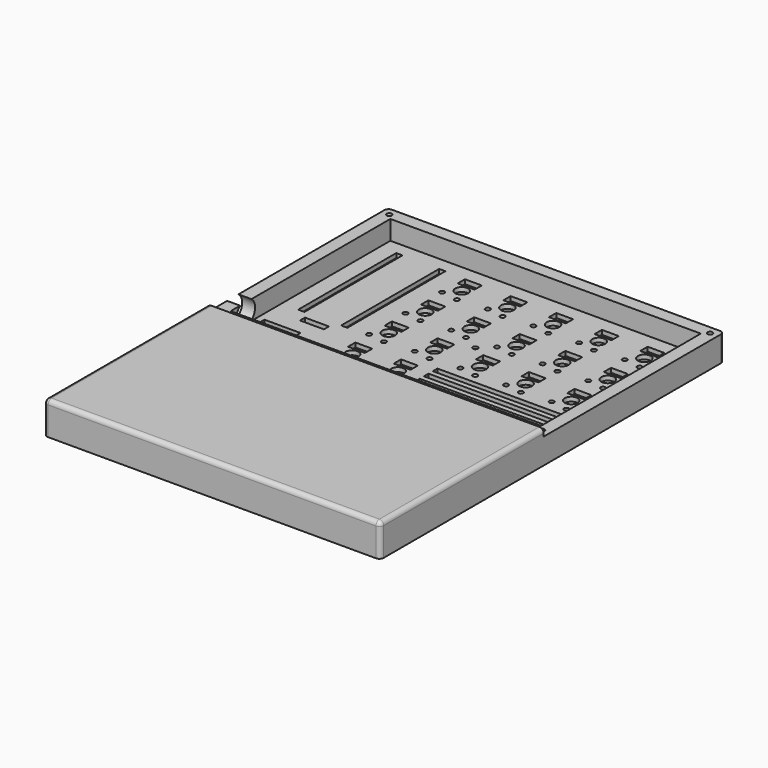
from build123d import *

# Parameters (mm, degrees)
PAD005_DEPTH    = 13.6
SKETCH046_W     = 129.2
SKETCH046_H     = 83.1
POCKET034_DEPTH = 11
SKETCH048_R     = 1.05
POCKET035_DEPTH = 13.601
SKETCH049_W     = 140
SKETCH049_H     = 93.9
POCKET036_DEPTH = 3
POCKET037_DEPTH = 1.6
SKETCH051_R     = 1
SKETCH051_R_2   = 2.7
SKETCH051_W     = 7
SKETCH051_H     = 3.8
POCKET038_DEPTH = 1.8
SKETCH052_W     = 2.6
SKETCH052_H     = 51
SKETCH052_W_2   = 10
SKETCH052_H_2   = 2.6
POCKET039_DEPTH = 1.8
SKETCH053_W     = 56.5
SKETCH053_H     = 2.4
SKETCH053_W_2   = 22.5
POCKET040_DEPTH = 1.8
SKETCH054_W     = 15
SKETCH054_H     = 10
POCKET041_DEPTH = 1.8
SKETCH055_R     = 4.85
POCKET042_DEPTH = 5.4
FILLET006_R     = 1.8


with BuildPart() as bottom002:
    # Sketch045 (on XY_Plane077 of Origin624) → Pad005 (new body)
    with BuildSketch(Plane.XY):
        Polygon((70, -46.95), (70, 46.95), (-70, 46.95), (-70, -46.95), (-70, -131.95), (70, -131.95), align=None)
    extrude(amount=PAD005_DEPTH)

    # Sketch046 (on Face4 of Pad005) → Pocket034 (cut)
    with BuildSketch(Plane.XY.offset(13.6)):
        Rectangle(SKETCH046_W, SKETCH046_H)
    extrude(amount=-POCKET034_DEPTH, mode=Mode.SUBTRACT)

    # Sketch048 (on Face5 of Pocket034) → Pocket035 (cut, through all)
    with BuildSketch(Plane.XY.offset(13.6)):
        with Locations((66.75, 43.7)):
            Circle(SKETCH048_R)
        with Locations((66.75, -43.7)):
            Circle(SKETCH048_R)
        with Locations((-66.75, -43.7)):
            Circle(SKETCH048_R)
        with Locations((-66.75, 43.7)):
            Circle(SKETCH048_R)
        with Locations((-4.05, 0)):
            Circle(SKETCH048_R)
    extrude(amount=-POCKET035_DEPTH, mode=Mode.SUBTRACT)

    # Sketch049 (on Face4 of Pad005) → Pocket036 (cut)
    with BuildSketch(Plane.XY.offset(13.6)):
        Rectangle(SKETCH049_W, SKETCH049_H)
    extrude(amount=-POCKET036_DEPTH, mode=Mode.SUBTRACT)

    # Sketch050 (on Face2 of Pocket036) → Pocket037 (cut)
    with BuildSketch(Plane(origin=(0, 0, 0), x_dir=(1, 0, 0), z_dir=(0, 0, -1))):
        Polygon((64.75, -43.7), (65.75, -45.432051), (67.75, -45.432051), (68.75, -43.7), (67.75, -41.967949), (65.75, -41.967949), align=None)
        Polygon((-64.75, -43.7), (-65.75, -45.432051), (-67.75, -45.432051), (-68.75, -43.7), (-67.75, -41.967949), (-65.75, -41.967949), align=None)
        Polygon((64.75, 43.7), (65.75, 45.432051), (67.75, 45.432051), (68.75, 43.7), (67.75, 41.967949), (65.75, 41.967949), align=None)
        Polygon((-64.75, 43.7), (-65.75, 45.432051), (-67.75, 45.432051), (-68.75, 43.7), (-67.75, 41.967949), (-65.75, 41.967949), align=None)
        Polygon((-2.05, 0), (-3.05, 1.732051), (-5.05, 1.732051), (-6.05, 0), (-5.05, -1.732051), (-3.05, -1.732051), align=None)
    extrude(amount=-POCKET037_DEPTH, mode=Mode.SUBTRACT)

    # Sketch051 (on Face52 of Pocket037) → Pocket038 (cut)
    with BuildSketch(Plane.XY.offset(2.6)):
        with Locations((28.85, 23.8)):
            Circle(SKETCH051_R)
        with Locations((21.85, 22.75)):
            Circle(SKETCH051_R)
        with Locations((24.45, 28.5)):
            Circle(SKETCH051_R_2)
        with Locations((9.85, 23.8)):
            Circle(SKETCH051_R)
        with Locations((2.85, 22.75)):
            Circle(SKETCH051_R)
        with Locations((5.45, 28.5)):
            Circle(SKETCH051_R_2)
        with Locations((-9.15, 23.8)):
            Circle(SKETCH051_R)
        with Locations((-16.15, 22.75)):
            Circle(SKETCH051_R)
        with Locations((-13.55, 28.5)):
            Circle(SKETCH051_R_2)
        with Locations((-28.15, 23.8)):
            Circle(SKETCH051_R)
        with Locations((-35.15, 22.75)):
            Circle(SKETCH051_R)
        with Locations((-32.55, 28.5)):
            Circle(SKETCH051_R_2)
        with Locations((-47.15, 23.8)):
            Circle(SKETCH051_R)
        with Locations((-54.15, 22.75)):
            Circle(SKETCH051_R)
        with Locations((-51.55, 28.5)):
            Circle(SKETCH051_R_2)
        with Locations((28.85, -14.2)):
            Circle(SKETCH051_R)
        with Locations((21.85, -15.25)):
            Circle(SKETCH051_R)
        with Locations((24.45, -9.5)):
            Circle(SKETCH051_R_2)
        with Locations((9.85, -14.2)):
            Circle(SKETCH051_R)
        with Locations((2.85, -15.25)):
            Circle(SKETCH051_R)
        with Locations((5.45, -9.5)):
            Circle(SKETCH051_R_2)
        with Locations((-9.15, -14.2)):
            Circle(SKETCH051_R)
        with Locations((-16.15, -15.25)):
            Circle(SKETCH051_R)
        with Locations((-13.55, -9.5)):
            Circle(SKETCH051_R_2)
        with Locations((-28.15, -14.2)):
            Circle(SKETCH051_R)
        with Locations((-35.15, -15.25)):
            Circle(SKETCH051_R)
        with Locations((-32.55, -9.5)):
            Circle(SKETCH051_R_2)
        with Locations((-47.15, -14.2)):
            Circle(SKETCH051_R)
        with Locations((-54.15, -15.25)):
            Circle(SKETCH051_R)
        with Locations((-51.55, -9.5)):
            Circle(SKETCH051_R_2)
        with Locations((28.85, -33.2)):
            Circle(SKETCH051_R)
        with Locations((21.85, -34.25)):
            Circle(SKETCH051_R)
        with Locations((24.45, -28.5)):
            Circle(SKETCH051_R_2)
        with Locations((9.85, -33.2)):
            Circle(SKETCH051_R)
        with Locations((2.85, -34.25)):
            Circle(SKETCH051_R)
        with Locations((5.45, -28.5)):
            Circle(SKETCH051_R_2)
        with Locations((28.85, 4.8)):
            Circle(SKETCH051_R)
        with Locations((21.85, 3.75)):
            Circle(SKETCH051_R)
        with Locations((24.45, 9.5)):
            Circle(SKETCH051_R_2)
        with Locations((9.85, 4.8)):
            Circle(SKETCH051_R)
        with Locations((2.85, 3.75)):
            Circle(SKETCH051_R)
        with Locations((5.45, 9.5)):
            Circle(SKETCH051_R_2)
        with Locations((-9.15, 4.8)):
            Circle(SKETCH051_R)
        with Locations((-16.15, 3.75)):
            Circle(SKETCH051_R)
        with Locations((-13.55, 9.5)):
            Circle(SKETCH051_R_2)
        with Locations((-28.15, 4.8)):
            Circle(SKETCH051_R)
        with Locations((-35.15, 3.75)):
            Circle(SKETCH051_R)
        with Locations((-32.55, 9.5)):
            Circle(SKETCH051_R_2)
        with Locations((-47.15, 4.8)):
            Circle(SKETCH051_R)
        with Locations((-54.15, 3.75)):
            Circle(SKETCH051_R)
        with Locations((-51.55, 9.5)):
            Circle(SKETCH051_R_2)
        with Locations((25.25, 33.65)):
            Rectangle(SKETCH051_W, SKETCH051_H)
        with Locations((6.25, 33.65)):
            Rectangle(SKETCH051_W, SKETCH051_H)
        with Locations((-12.75, 33.65)):
            Rectangle(SKETCH051_W, SKETCH051_H)
        with Locations((-31.75, 33.65)):
            Rectangle(SKETCH051_W, SKETCH051_H)
        with Locations((-50.75, 33.65)):
            Rectangle(SKETCH051_W, SKETCH051_H)
        with Locations((25.25, -4.35)):
            Rectangle(SKETCH051_W, SKETCH051_H)
        with Locations((6.25, -4.35)):
            Rectangle(SKETCH051_W, SKETCH051_H)
        with Locations((-12.75, -4.35)):
            Rectangle(SKETCH051_W, SKETCH051_H)
        with Locations((-31.75, -4.35)):
            Rectangle(SKETCH051_W, SKETCH051_H)
        with Locations((-50.75, -4.35)):
            Rectangle(SKETCH051_W, SKETCH051_H)
        with Locations((25.25, -23.35)):
            Rectangle(SKETCH051_W, SKETCH051_H)
        with Locations((6.25, -23.35)):
            Rectangle(SKETCH051_W, SKETCH051_H)
        with Locations((25.25, 14.65)):
            Rectangle(SKETCH051_W, SKETCH051_H)
        with Locations((6.25, 14.65)):
            Rectangle(SKETCH051_W, SKETCH051_H)
        with Locations((-12.75, 14.65)):
            Rectangle(SKETCH051_W, SKETCH051_H)
        with Locations((-31.75, 14.65)):
            Rectangle(SKETCH051_W, SKETCH051_H)
        with Locations((-50.75, 14.65)):
            Rectangle(SKETCH051_W, SKETCH051_H)
    extrude(amount=-POCKET038_DEPTH, mode=Mode.SUBTRACT)

    # Sketch052 (on Face52 of Pocket038) → Pocket039 (cut)
    with BuildSketch(Plane.XY.offset(2.6)):
        with Locations((38.55, 10.5)):
            Rectangle(SKETCH052_W, SKETCH052_H)
        with Locations((56.4, 10.5)):
            Rectangle(SKETCH052_W, SKETCH052_H)
        with Locations((47.5, -19.3)):
            Rectangle(SKETCH052_W_2, SKETCH052_H_2)
    extrude(amount=-POCKET039_DEPTH, mode=Mode.SUBTRACT)

    # Sketch053 (on Face52 of Pocket039) → Pocket040 (cut)
    with BuildSketch(Plane.XY.offset(2.6)):
        with Locations((-31.75, -24.9)):
            Rectangle(SKETCH053_W, SKETCH053_H)
        with Locations((-31.75, -29.5)):
            Rectangle(SKETCH053_W, SKETCH053_H)
        with Locations((-14.75, -34.1)):
            Rectangle(SKETCH053_W_2, SKETCH053_H)
        with Locations((-31.75, -20.3)):
            Rectangle(SKETCH053_W, SKETCH053_H)
    extrude(amount=-POCKET040_DEPTH, mode=Mode.SUBTRACT)

    # Sketch054 (on Face52 of Pocket040) → Pocket041 (cut)
    with BuildSketch(Plane.XY.offset(2.6)):
        with Locations((54.375, -32.375)):
            Rectangle(SKETCH054_W, SKETCH054_H)
    extrude(amount=-POCKET041_DEPTH, mode=Mode.SUBTRACT)

    # Sketch055 (on Face5 of Pocket041) → Pocket042 (cut)
    with BuildSketch(Plane.YZ.offset(70)):
        with Locations((-33.65, 6.75)):
            Circle(SKETCH055_R)
    extrude(amount=-POCKET042_DEPTH, mode=Mode.SUBTRACT)

    # Fillet006
    fillet006_edges = [bottom002.edges().sort_by_distance(p)[0] for p in [
        (-70, -89.45, 13.6),
        (0, -131.95, 13.6),
        (-70, -131.95, 6.8),
        (-70, 46.95, 5.3),
        (70, 46.95, 5.3),
        (70, -89.45, 13.6),
        (70, -131.95, 6.8),
    ]]
    fillet(fillet006_edges, radius=FILLET006_R)


with BuildPart() as bottom002_1:
    # Body004 placement: moved
    add(bottom002.part.moved(Location((0, 0, -0.1))))


with BuildPart() as part_mirroring:
    # Part__Mirroring: instance of Bottom002
    add(bottom002_1.part.mirror(Plane(origin=(0, 0, 0), x_dir=(0, -1, 0), z_dir=(1, 0, 0))))


with BuildPart() as part_mirroring_1:
    # Part__Mirroring placement: moved
    add(part_mirroring.part.moved(Location((100, 0, 0))))


solid = part_mirroring_1.part
